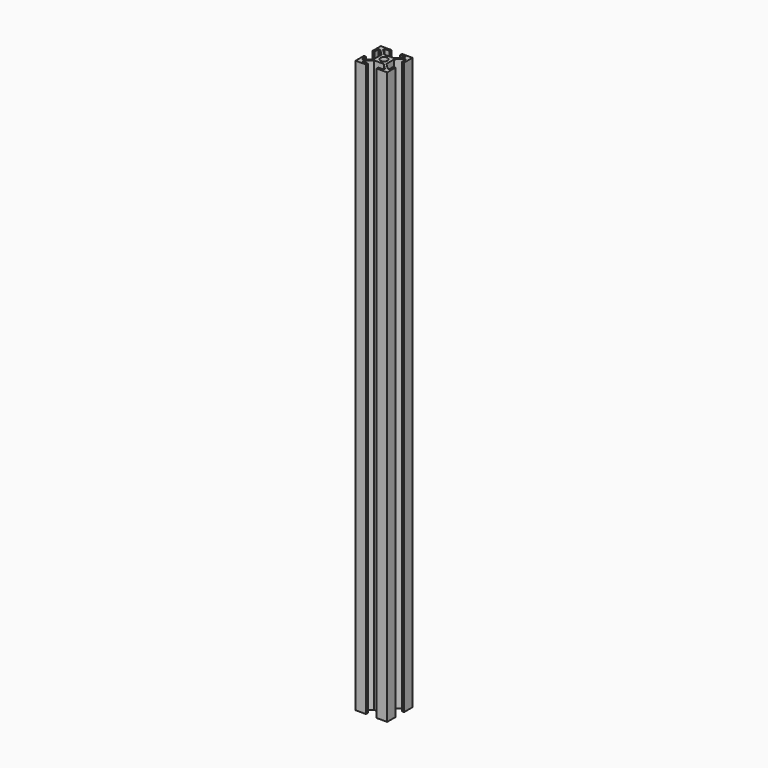
from build123d import *

# Parameters (mm, degrees)
F0_R     = 3.5
F1_DEPTH = 542


with BuildPart() as f1:
    # F0 (on Top) → F1 (new body)
    with BuildSketch(Plane.XY):
        Polygon((4.585786, 6), (-4.585786, 6), (-10, 11.414214), (-10, 13), (-5, 13), (-5, 15), (-15, 15), (-15, 5), (-13, 5), (-13, 10), (-11.414214, 10), (-6, 4.585786), (-6, -4.585786), (-11.414214, -10), (-13, -10), (-13, -5), (-15, -5), (-15, -15), (-5, -15), (-5, -13), (-10, -13), (-10, -11.414214), (-4.585786, -6), (4.585786, -6), (9.999999, -11.414215), (9.999999, -13.000001), (4.999999, -13.000001), (4.999999, -15.000001), (14.999999, -15.000001), (14.999999, -5.000001), (12.999999, -5.000001), (12.999999, -10.000001), (11.414212, -10.000001), (6, -4.585786), (6, 4.585786), (11.414212, 10.000001), (12.999999, 10.000001), (12.999999, 5.000001), (14.999999, 5.000001), (14.999999, 15.000001), (4.999999, 15.000001), (4.999999, 13.000001), (9.999999, 13.000001), (9.999999, 11.414215), align=None)
        Circle(F0_R, mode=Mode.SUBTRACT)
    extrude(amount=F1_DEPTH)


solid = f1.part
